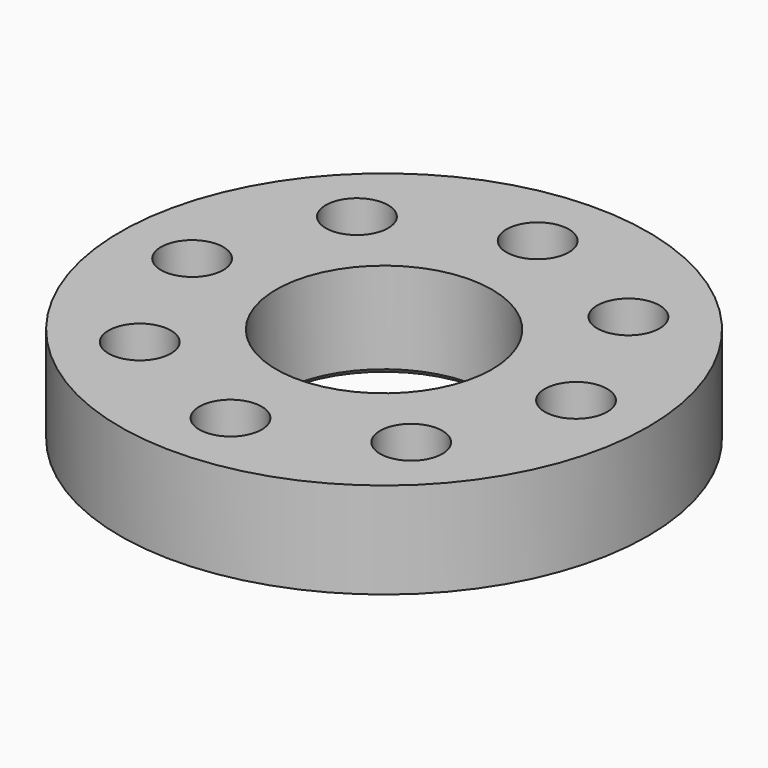
from build123d import *

# Parameters (mm, degrees)
SKETCH_R        = 11
PAD_DEPTH       = 4
SKETCH002_R     = 4.5
SKETCH002_R_2   = 1.3
POCKET001_DEPTH = 10
CHAMFER_SIZE    = 0.2


with BuildPart() as part:
    # Sketch → Pad (new body)
    with BuildSketch(Plane.XY):
        Circle(SKETCH_R)
    extrude(amount=PAD_DEPTH)

    # Sketch002 → Pocket001 (cut)
    with BuildSketch(Plane.XY.offset(6)):
        Circle(SKETCH002_R)
        with Locations((0, 8)):
            Circle(SKETCH002_R_2)
        with Locations((5.656854, 5.656854)):
            Circle(SKETCH002_R_2)
        with Locations((8, 0)):
            Circle(SKETCH002_R_2)
        with Locations((5.656854, -5.656854)):
            Circle(SKETCH002_R_2)
        with Locations((0, -8)):
            Circle(SKETCH002_R_2)
        with Locations((-5.656854, -5.656854)):
            Circle(SKETCH002_R_2)
        with Locations((-8, 0)):
            Circle(SKETCH002_R_2)
        with Locations((-5.656854, 5.656854)):
            Circle(SKETCH002_R_2)
    extrude(amount=-POCKET001_DEPTH, mode=Mode.SUBTRACT)

    # Chamfer
    chamfer_edges = [part.edges().sort_by_distance(p)[0] for p in [
        (4.356854, 5.656854, 0),
        (-6.956854, 5.656854, 0),
        (4.356854, -5.656854, 0),
        (-9.3, 0, 0),
        (-6.956854, -5.656854, 0),
        (-1.3, -8, 0),
        (-1.3, 8, 0),
        (-4.5, 0, 0),
        (6.7, 0, 0),
    ]]
    chamfer(chamfer_edges, length=CHAMFER_SIZE)


solid = part.part
